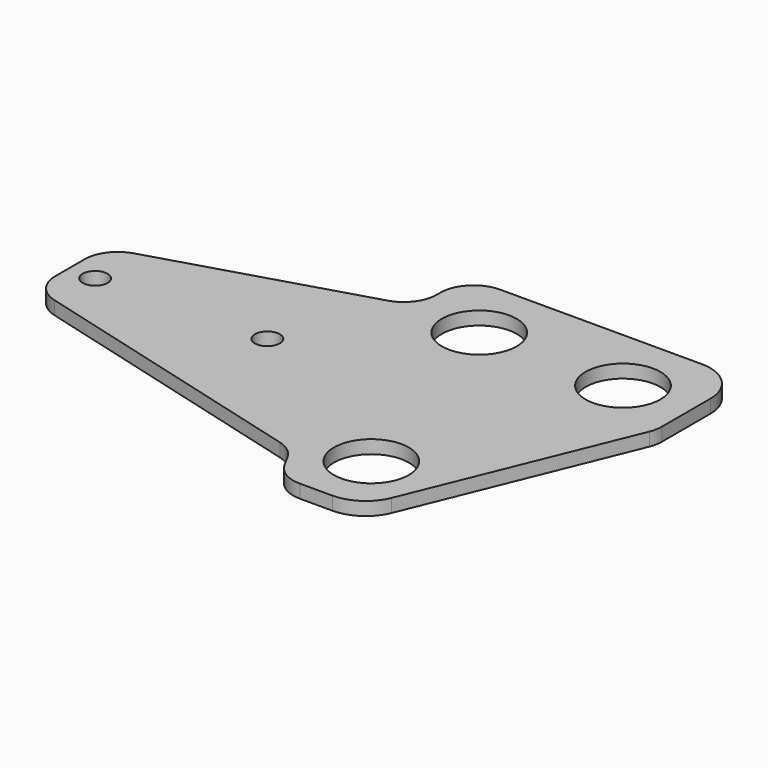
from build123d import *

# Parameters (mm, degrees)
F0_R     = 1.5
F0_R_2   = 4.5
F1_DEPTH = 1.6


with BuildPart() as f1:
    # F0 (on Top) → F1 (new body)
    with BuildSketch(Plane.XY):
        with BuildLine():
            Line((31.234043, -8.719558), (31.234043, -1.418333))
            ThreePointArc((31.234043, -1.418333), (29.769577, 2.117201), (26.234043, 3.581667))
            Line((26.234043, 3.581667), (1.948889, 3.581667))
            ThreePointArc((1.948889, 3.581667), (-0.879538, 2.410094), (-2.051111, -0.418333))
            Line((-2.051111, -0.418333), (-2.051111, -0.933739))
            ThreePointArc((-2.051111, -0.933739), (-2.84194, -3.321461), (-4.90172, -4.765044))
            Line((-4.90172, -4.765044), (-29.545943, -12.158312))
            ThreePointArc((-29.545943, -12.158312), (-31.605723, -13.601895), (-32.396551, -15.989617))
            Line((-32.396551, -15.989617), (-32.396551, -20.383074))
            ThreePointArc((-32.396551, -20.383074), (-31.572894, -22.814297), (-29.441127, -24.244273))
            Line((-29.441127, -24.244273), (5.201511, -33.616194))
            ThreePointArc((5.201511, -33.616194), (6.642545, -34.343427), (7.678821, -35.580996))
            Line((7.678821, -35.580996), (8.385379, -36.893176))
            ThreePointArc((8.385379, -36.893176), (9.856117, -38.430843), (11.907264, -38.996778))
            Line((11.907264, -38.996778), (15.831667, -38.996778))
            ThreePointArc((15.831667, -38.996778), (18.619917, -38.14716), (20.460587, -35.887045))
            Line((20.460587, -35.887045), (30.937178, -10.231771))
            ThreePointArc((30.937178, -10.231771), (31.159125, -9.490096), (31.234043, -8.719558))
        make_face()
        with Locations((-29.198352, -18.399177)):
            Circle(F0_R, mode=Mode.SUBTRACT)
        with Locations((-8.879622, -17.901169)):
            Circle(F0_R, mode=Mode.SUBTRACT)
        with Locations((14.315047, -31.251039)):
            Circle(F0_R_2, mode=Mode.SUBTRACT)
        with Locations((5.875676, -4.47092)):
            Circle(F0_R_2, mode=Mode.SUBTRACT)
        with Locations((23.163911, -4.47092)):
            Circle(F0_R_2, mode=Mode.SUBTRACT)
    extrude(amount=F1_DEPTH)


solid = f1.part
